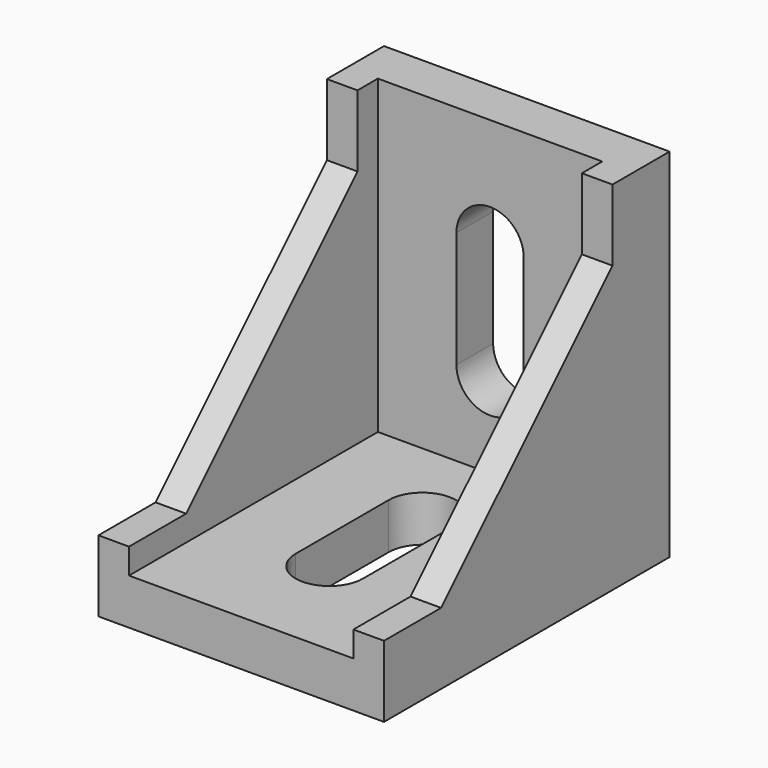
from build123d import *

# Parameters (mm, degrees)
PAD_DEPTH            = 14
BOX_W                = 33
BOX_H                = 33
BOX_DEPTH            = 22
POCKET_DEPTH         = 4.5
POCKET001_DEPTH      = 4.5
BODY_ROLL_ANGLE      = 90
BODY_PLACEMENT_ANGLE = -90


with BuildPart() as part:
    # Sketch → Pad (new body, symmetric)
    with BuildSketch(Plane.XY):
        Polygon((0, 0), (0, 35), (7, 35), (7, 28), (28, 7), (35, 7), (35, 0), align=None)
    extrude(amount=PAD_DEPTH, both=True)

    # Box → Box (cut)
    with BuildSketch(Plane(origin=(4.5, 4.5, -11), x_dir=(1, 0, 0), z_dir=(0, 0, 1))):
        with Locations((16.5, 16.5)):
            Rectangle(BOX_W, BOX_H)
    extrude(amount=BOX_DEPTH, mode=Mode.SUBTRACT)

    # Sketch001 (on Face1 of Box) → Pocket (cut)
    with BuildSketch(Plane(origin=(0, 0, 0), x_dir=(0, -1, 0), z_dir=(-1, 0, 0))):
        with BuildLine():
            ThreePointArc((-24.2, 3.3), (-27.5, 0), (-24.2, -3.3))
            Line((-24.2, -3.3), (-12.8, -3.3))
            ThreePointArc((-12.8, -3.3), (-9.5, 0), (-12.8, 3.3))
            Line((-24.2, 3.3), (-12.8, 3.3))
        make_face()
    extrude(amount=-POCKET_DEPTH, mode=Mode.SUBTRACT)

    # Sketch002 (on Face2 of Pocket) → Pocket001 (cut)
    with BuildSketch(Plane.XZ):
        with BuildLine():
            ThreePointArc((12.8, 3.3), (9.5, 0), (12.8, -3.3))
            Line((12.8, -3.3), (24.2, -3.3))
            ThreePointArc((24.2, -3.3), (27.5, 0), (24.2, 3.3))
            Line((12.8, 3.3), (24.2, 3.3))
        make_face()
    extrude(amount=-POCKET001_DEPTH, mode=Mode.SUBTRACT)


with BuildPart() as part_1:
    # Body roll: moved
    add(part.part.rotate(Axis((0, 0, 0), (1, 0, 0)), BODY_ROLL_ANGLE))


with BuildPart() as part_2:
    # Body placement: moved
    add(part_1.part.rotate(Axis((0, 0, 0), (0, 0, 1)), BODY_PLACEMENT_ANGLE))


solid = part_2.part
